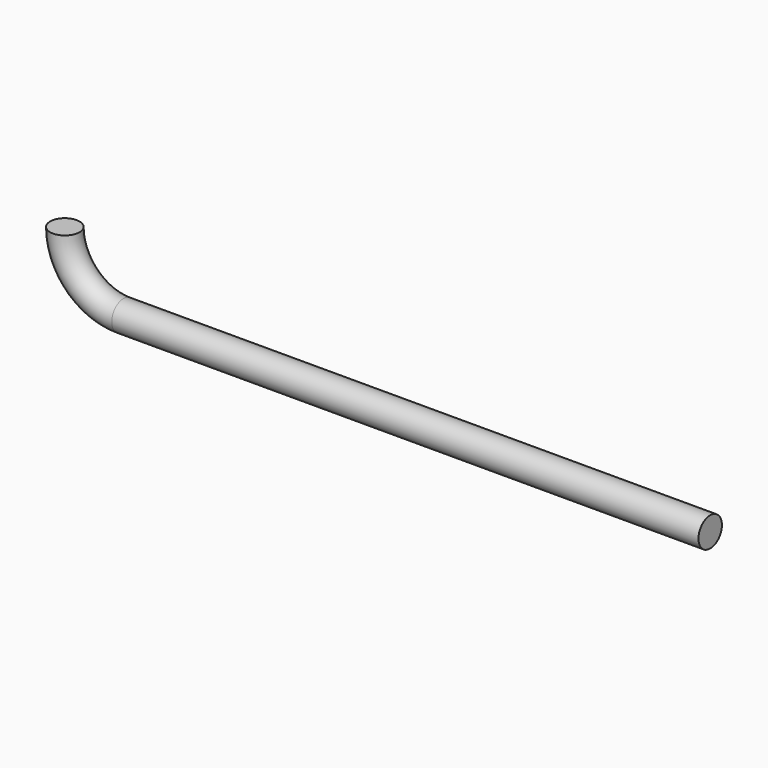
from build123d import *

# Parameters (mm, degrees)
TORUS_R                = 0.25
TORUS_ANGLE            = 90
CYLINDER_R             = 0.25
CYLINDER_DEPTH         = 10
FUSION_PITCH_ANGLE     = -90
FUSION_PLACEMENT_ANGLE = 90
CLONE_PLACEMENT_ANGLE  = 180


with BuildPart() as torus:
    # Torus → Torus (revolve)
    with BuildSketch(Plane.XZ):
        with Locations((1, 0)):
            Circle(TORUS_R)
    revolve(axis=Axis((0, 0, 0), (0, 0, 1)), revolution_arc=TORUS_ANGLE)


with BuildPart() as fusion001:
    # Cylinder → Cylinder (new body)
    with BuildSketch(Plane(origin=(1, 0, 0), x_dir=(1, 0, 0), z_dir=(0, -1, 0))):
        Circle(CYLINDER_R)
    extrude(amount=CYLINDER_DEPTH)

    # Fusion: union Torus
    add(torus.part)


with BuildPart() as fusion001_1:
    # Fusion pitch: moved
    add(fusion001.part.rotate(Axis((0, 0, 0), (0, 1, 0)), FUSION_PITCH_ANGLE))


with BuildPart() as fusion001_2:
    # Fusion placement: moved
    add(fusion001_1.part.moved(Location((31, 0, 0))).rotate(Axis((31, 0, 0), (0, 0, 1)), FUSION_PLACEMENT_ANGLE))


with BuildPart() as fusion001_3:
    # Clone placement: moved
    add(fusion001_2.part.moved(Location((0, 1, 30.05))).rotate(Axis((0, 1, 30.05), (-1, 0, 0)), CLONE_PLACEMENT_ANGLE))


solid = fusion001_3.part
